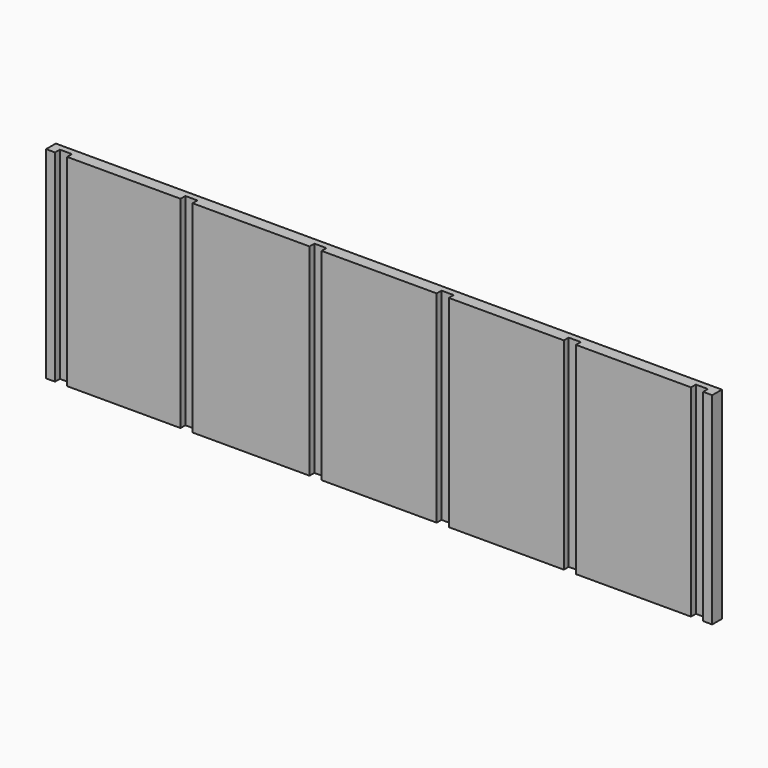
from build123d import *

# Parameters (mm, degrees)
F0_W      = 1047.75
F0_H      = 317.5
F1_DEPTH  = 19.05
F2_W      = 19.05
F2_H      = 317.5
F3_DEPTH  = 9.525
F4_W      = 19.05
F4_H      = 317.5
F5_DEPTH  = 9.525
F6_W      = 19.05
F6_H      = 317.5
F7_DEPTH  = 9.525
F8_W      = 19.05
F8_H      = 317.5
F9_DEPTH  = 9.525
F10_W     = 19.05
F10_H     = 317.5
F11_DEPTH = 9.525
F12_W     = 19.05
F12_H     = 317.5
F13_DEPTH = 9.525


with BuildPart() as f1:
    # F0 (on Front) → F1 (new body)
    with BuildSketch(Plane.XZ):
        with Locations((523.875, 158.75)):
            Rectangle(F0_W, F0_H)
    extrude(amount=F1_DEPTH)

    # F2 (on face) → F3 (cut)
    with BuildSketch(Plane.XZ.offset(19.05)):
        with Locations((23.600164, 158.75)):
            Rectangle(F2_W, F2_H)
    extrude(amount=-F3_DEPTH, mode=Mode.SUBTRACT)

    # F4 (on face) → F5 (cut)
    with BuildSketch(Plane.XZ.offset(19.05)):
        with Locations((1023.9375, 158.75)):
            Rectangle(F4_W, F4_H)
    extrude(amount=-F5_DEPTH, mode=Mode.SUBTRACT)

    # F6 (on face) → F7 (cut)
    with BuildSketch(Plane.XZ.offset(19.05)):
        with Locations((823.9125, 158.75)):
            Rectangle(F6_W, F6_H)
    extrude(amount=-F7_DEPTH, mode=Mode.SUBTRACT)

    # F8 (on face) → F9 (cut)
    with BuildSketch(Plane.XZ.offset(19.05)):
        with Locations((220.98, 158.75)):
            Rectangle(F8_W, F8_H)
    extrude(amount=-F9_DEPTH, mode=Mode.SUBTRACT)

    # F10 (on face) → F11 (cut)
    with BuildSketch(Plane.XZ.offset(19.05)):
        with Locations((423.8625, 158.75)):
            Rectangle(F10_W, F10_H)
    extrude(amount=-F11_DEPTH, mode=Mode.SUBTRACT)

    # F12 (on face) → F13 (cut)
    with BuildSketch(Plane.XZ.offset(19.05)):
        with Locations((623.8875, 158.75)):
            Rectangle(F12_W, F12_H)
    extrude(amount=-F13_DEPTH, mode=Mode.SUBTRACT)


solid = f1.part
